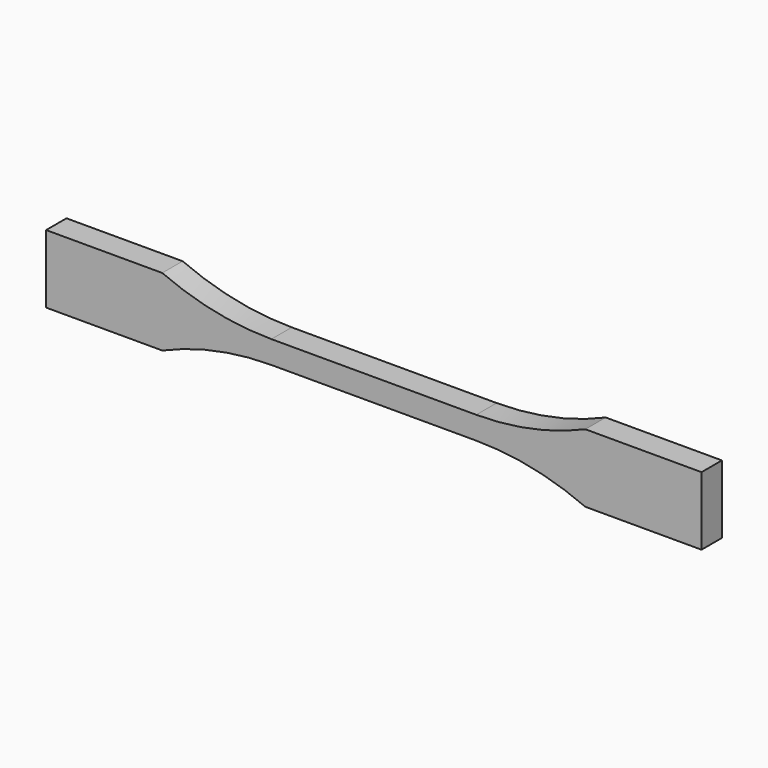
from build123d import *

# Parameters (mm, degrees)
F1_DEPTH = 7.112


with BuildPart() as f1:
    # F0 (on Front) → F1 (new body)
    with BuildSketch(Plane.XZ):
        with BuildLine():
            Line((28.575, 3.175), (0, 3.175))
            Line((0, 3.175), (-28.575, 3.175))
            ThreePointArc((-28.575, 3.175), (-44.12926, 4.77939), (-59.02853, 9.525))
            Line((-59.02853, 9.525), (-91.44, 9.525))
            Line((-91.44, 9.525), (-91.44, 0))
            Line((-91.44, 0), (-91.44, -9.525))
            Line((-91.44, -9.525), (-59.02853, -9.525))
            ThreePointArc((-59.02853, -9.525), (-44.12926, -4.77939), (-28.575, -3.175))
            Line((-28.575, -3.175), (0, -3.175))
            Line((0, -3.175), (28.575, -3.175))
            ThreePointArc((28.575, -3.175), (44.12926, -4.77939), (59.02853, -9.525))
            Line((59.02853, -9.525), (91.44, -9.525))
            Line((91.44, -9.525), (91.44, 0))
            Line((91.44, 0), (91.44, 9.525))
            Line((91.44, 9.525), (59.02853, 9.525))
            ThreePointArc((59.02853, 9.525), (44.12926, 4.77939), (28.575, 3.175))
        make_face()
    extrude(amount=F1_DEPTH)


solid = f1.part
